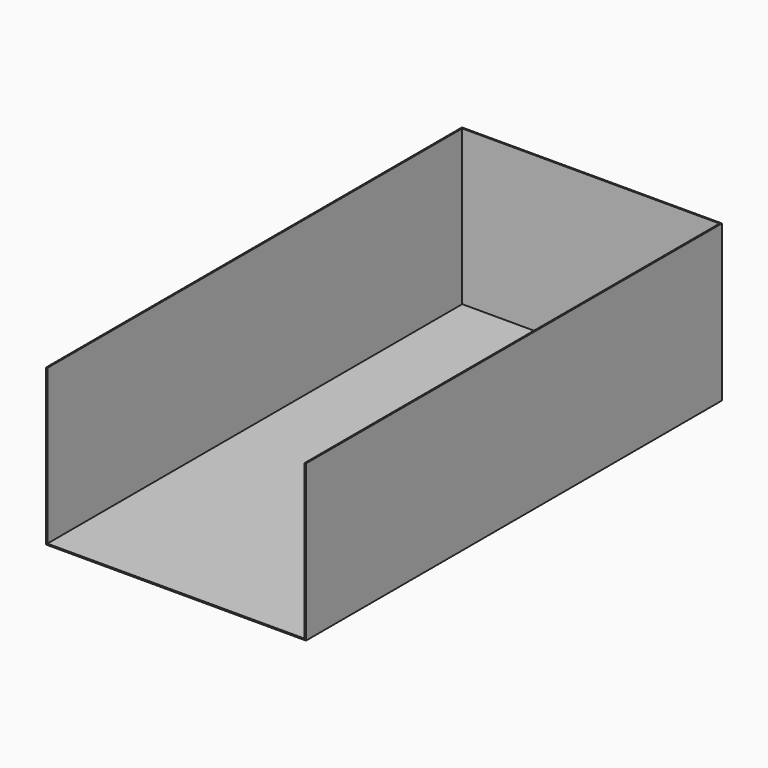
from build123d import *

# Parameters (mm, degrees)
F0_W     = 500
F0_H     = 300
F1_DEPTH = 1000
F2_T     = -2.5


with BuildPart() as f1:
    # F0 (on Front) → F1 (new body)
    with BuildSketch(Plane.XZ):
        with Locations((-85.731422, 2.157534)):
            Rectangle(F0_W, F0_H)
    extrude(amount=F1_DEPTH)

    # F2
    f2_openings = [f1.faces().sort_by_distance(p)[0] for p in [
        (-85.731422, -500, 152.157534),
        (-85.731422, -1000, 2.157534),
    ]]
    offset(amount=F2_T, openings=f2_openings)


solid = f1.part
